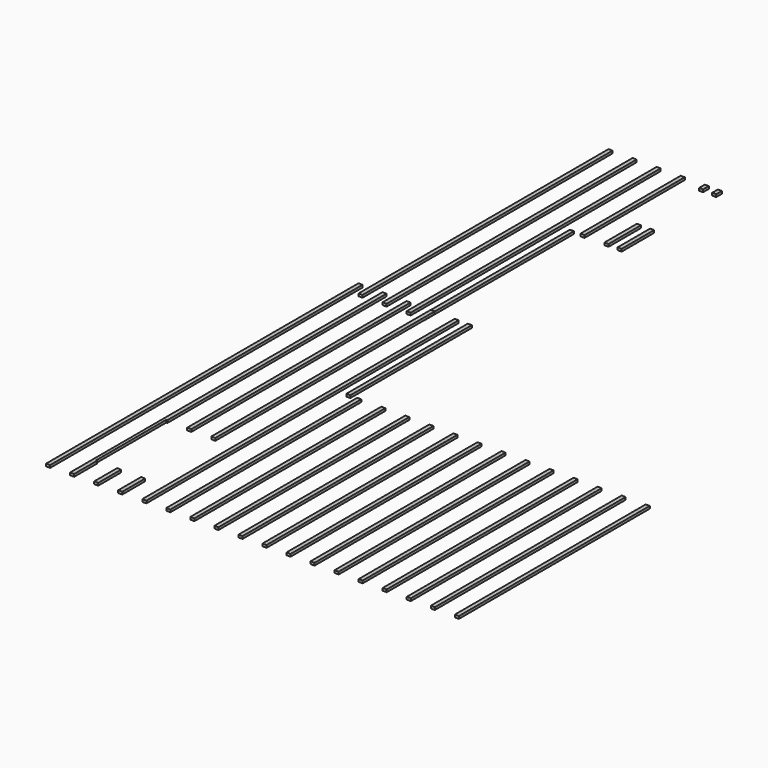
from build123d import *

# Parameters (mm, degrees)
F0_W     = 68
F0_H     = 4000
F0_H_2   = 2546
F1_DEPTH = 42
F2_START = -108
F0_H_3   = 2100
F2_DEPTH = 42
F0_H_4   = 3139
F3_W     = 600
F3_H     = 1300
F3_W_2   = 1000
F3_H_2   = 1470
F4_DEPTH = 1000


with BuildPart() as f1:
    # F0 (on Top) → F1 (new body)
    with BuildSketch(Plane.XY):
        with Locations((59.794658795, 1170.5140980401)):
            Rectangle(F0_W, F0_H)
        with Locations((59.794658795, 4443.5140980401)):
            Rectangle(F0_W, F0_H_2)
    extrude(amount=F1_DEPTH)


with BuildPart() as f1b:
    # F0 (on Top) → F1, piece 2 (new body)
    with BuildSketch(Plane.XY):
        with Locations((462.794658795, 1170.5140980401)):
            Rectangle(F0_W, F0_H)
        with Locations((462.794658795, 4443.5140980401)):
            Rectangle(F0_W, F0_H_2)
    extrude(amount=F1_DEPTH)


with BuildPart() as f1c:
    # F0 (on Top) → F1, piece 3 (new body)
    with BuildSketch(Plane.XY):
        with Locations((865.794658795, 1170.5140980401)):
            Rectangle(F0_W, F0_H)
        with Locations((865.794658795, 4443.5140980401)):
            Rectangle(F0_W, F0_H_2)
    extrude(amount=F1_DEPTH)


with BuildPart() as f1d:
    # F0 (on Top) → F1, piece 4 (new body)
    with BuildSketch(Plane.XY):
        with Locations((1268.794658795, 1170.5140980401)):
            Rectangle(F0_W, F0_H)
        with Locations((1268.794658795, 4443.5140980401)):
            Rectangle(F0_W, F0_H_2)
    extrude(amount=F1_DEPTH)


with BuildPart() as f1e:
    # F0 (on Top) → F1, piece 5 (new body)
    with BuildSketch(Plane.XY):
        with Locations((2477.794658795, 1170.5140980401)):
            Rectangle(F0_W, F0_H)
    extrude(amount=F1_DEPTH)


with BuildPart() as f1f:
    # F0 (on Top) → F1, piece 6 (new body)
    with BuildSketch(Plane.XY):
        with Locations((4089.794658795, 1170.5140980401)):
            Rectangle(F0_W, F0_H)
    extrude(amount=F1_DEPTH)


with BuildPart() as f1g:
    # F0 (on Top) → F1, piece 7 (new body)
    with BuildSketch(Plane.XY):
        with Locations((2880.794658795, 1170.5140980401)):
            Rectangle(F0_W, F0_H)
    extrude(amount=F1_DEPTH)


with BuildPart() as f1h:
    # F0 (on Top) → F1, piece 8 (new body)
    with BuildSketch(Plane.XY):
        with Locations((1671.794658795, 4443.5140980401)):
            Rectangle(F0_W, F0_H_2)
        with Locations((1671.794658795, 1170.5140980401)):
            Rectangle(F0_W, F0_H)
    extrude(amount=F1_DEPTH)


with BuildPart() as f1i:
    # F0 (on Top) → F1, piece 9 (new body)
    with BuildSketch(Plane.XY):
        with Locations((2074.794658795, 1170.5140980401)):
            Rectangle(F0_W, F0_H)
    extrude(amount=F1_DEPTH)


with BuildPart() as f1j:
    # F0 (on Top) → F1, piece 10 (new body)
    with BuildSketch(Plane.XY):
        with Locations((5298.794658795, 1170.5140980401)):
            Rectangle(F0_W, F0_H)
    extrude(amount=F1_DEPTH)


with BuildPart() as f1k:
    # F0 (on Top) → F1, piece 11 (new body)
    with BuildSketch(Plane.XY):
        with Locations((5701.794658795, 1170.5140980401)):
            Rectangle(F0_W, F0_H)
    extrude(amount=F1_DEPTH)


with BuildPart() as f1l:
    # F0 (on Top) → F1, piece 12 (new body)
    with BuildSketch(Plane.XY):
        with Locations((4492.794658795, 1170.5140980401)):
            Rectangle(F0_W, F0_H)
    extrude(amount=F1_DEPTH)


with BuildPart() as f1m:
    # F0 (on Top) → F1, piece 13 (new body)
    with BuildSketch(Plane.XY):
        with Locations((3283.794658795, 1170.5140980401)):
            Rectangle(F0_W, F0_H)
    extrude(amount=F1_DEPTH)


with BuildPart() as f1n:
    # F0 (on Top) → F1, piece 14 (new body)
    with BuildSketch(Plane.XY):
        with Locations((4895.794658795, 1170.5140980401)):
            Rectangle(F0_W, F0_H)
    extrude(amount=F1_DEPTH)


with BuildPart() as f1o:
    # F0 (on Top) → F1, piece 15 (new body)
    with BuildSketch(Plane.XY):
        with Locations((3686.794658795, 1170.5140980401)):
            Rectangle(F0_W, F0_H)
    extrude(amount=F1_DEPTH)


with BuildPart() as f1p:
    # F0 (on Top) → F1, piece 16 (new body)
    with BuildSketch(Plane.XY):
        with Locations((6910.794658795, 1170.5140980401)):
            Rectangle(F0_W, F0_H)
    extrude(amount=F1_DEPTH)


with BuildPart() as f1q:
    # F0 (on Top) → F1, piece 17 (new body)
    with BuildSketch(Plane.XY):
        with Locations((1891.794658795, 4443.5140980401)):
            Rectangle(F0_W, F0_H_2)
    extrude(amount=F1_DEPTH)


with BuildPart() as f1r:
    # F0 (on Top) → F1, piece 18 (new body)
    with BuildSketch(Plane.XY):
        with Locations((6507.794658795, 1170.5140980401)):
            Rectangle(F0_W, F0_H)
    extrude(amount=F1_DEPTH)


with BuildPart() as f1s:
    # F0 (on Top) → F1, piece 19 (new body)
    with BuildSketch(Plane.XY):
        with Locations((6104.794658795, 1170.5140980401)):
            Rectangle(F0_W, F0_H)
    extrude(amount=F1_DEPTH)


with BuildPart() as f2:
    # F0 (on Top) → F2 (new body)
    with BuildSketch(Plane.XY.offset(F2_START)):
        with Locations((1671.794658795, 9905.5140980401)):
            Rectangle(F0_W, F0_H_3)
    extrude(amount=-F2_DEPTH)


with BuildPart() as f2b:
    # F0 (on Top) → F2, piece 2 (new body)
    with BuildSketch(Plane.XY.offset(F2_START)):
        with Locations((1268.794658795, 9905.5140980401)):
            Rectangle(F0_W, F0_H_3)
    extrude(amount=-F2_DEPTH)


with BuildPart() as f2c:
    # F0 (on Top) → F2, piece 3 (new body)
    with BuildSketch(Plane.XY.offset(F2_START)):
        with Locations((865.794658795, 7286.0140980401)):
            Rectangle(F0_W, F0_H_4)
        with Locations((865.794658795, 9905.5140980401)):
            Rectangle(F0_W, F0_H_3)
    extrude(amount=-F2_DEPTH)


with BuildPart() as f2d:
    # F0 (on Top) → F2, piece 4 (new body)
    with BuildSketch(Plane.XY.offset(F2_START)):
        with Locations((1091.794658795, 7286.0140980401)):
            Rectangle(F0_W, F0_H_4)
    extrude(amount=-F2_DEPTH)


with BuildPart() as f2e:
    # F0 (on Top) → F2, piece 5 (new body)
    with BuildSketch(Plane.XY.offset(F2_START)):
        with Locations((462.794658795, 9905.5140980401)):
            Rectangle(F0_W, F0_H_3)
        with Locations((462.794658795, 7286.0140980401)):
            Rectangle(F0_W, F0_H_4)
    extrude(amount=-F2_DEPTH)


with BuildPart() as f2f:
    # F0 (on Top) → F2, piece 6 (new body)
    with BuildSketch(Plane.XY.offset(F2_START)):
        with Locations((59.794658795, 9905.5140980401)):
            Rectangle(F0_W, F0_H_3)
        with Locations((59.794658795, 7286.0140980401)):
            Rectangle(F0_W, F0_H_4)
    extrude(amount=-F2_DEPTH)


with BuildPart() as f2g:
    # F0 (on Top) → F2, piece 7 (new body)
    with BuildSketch(Plane.XY.offset(F2_START)):
        with Locations((1891.794658795, 9905.5140980401)):
            Rectangle(F0_W, F0_H_3)
    extrude(amount=-F2_DEPTH)


with BuildPart() as f4_tool:
    # F3 (on face) → F4 (new body)
    with BuildSketch(Plane.XY.offset(42)):
        with Locations((1625.794658795, 10185.5140980401)):
            Rectangle(F3_W, F3_H)
        with Locations((978.794658795, 385.5140980401)):
            Rectangle(F3_W_2, F3_H_2)
    extrude(amount=-F4_DEPTH)


with BuildPart() as f1b_1:
    add(f1b.part)

    # F4: cut by f4_tool
    add(f4_tool.part, mode=Mode.SUBTRACT)


with BuildPart() as f1c_1:
    add(f1c.part)

    # F4: cut by f4_tool
    add(f4_tool.part, mode=Mode.SUBTRACT)


with BuildPart() as f1d_1:
    add(f1d.part)

    # F4: cut by f4_tool
    add(f4_tool.part, mode=Mode.SUBTRACT)


with BuildPart() as f2_1:
    add(f2.part)

    # F4: cut by f4_tool
    add(f4_tool.part, mode=Mode.SUBTRACT)


with BuildPart() as f2g_1:
    add(f2g.part)

    # F4: cut by f4_tool
    add(f4_tool.part, mode=Mode.SUBTRACT)


solid = Compound([f1.part, f1e.part, f1f.part, f1g.part, f1h.part, f1i.part, f1j.part, f1k.part, f1l.part, f1m.part, f1n.part, f1o.part, f1p.part, f1q.part, f1r.part, f1s.part, f2b.part, f2c.part, f2d.part, f2e.part, f2f.part, f1b_1.part, f1c_1.part, f1d_1.part, f2_1.part, f2g_1.part])
